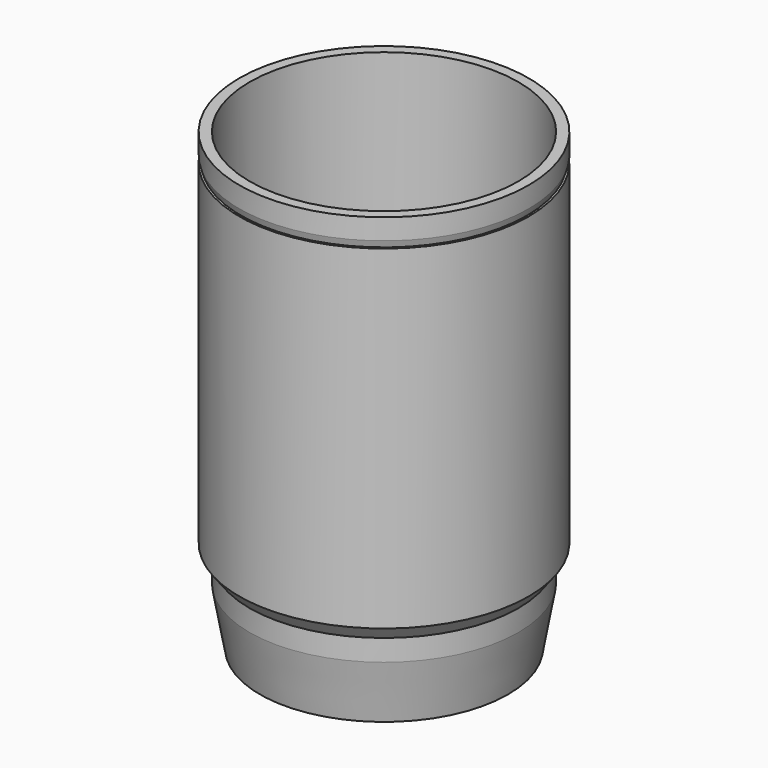
from build123d import *


with BuildPart() as f1:
    # F0 (on Front) → F1 (revolve)
    with BuildSketch(Plane.XZ):
        Polygon((0, -2), (0, 0), (-28.3, 0), (-28.3, 9.8), (-33.3, 14.8), (-36, 14.8), (-36, 21), (-39, 24.981719), (-39, 130), (-42, 130), (-42, 124), (-41.4, 122), (-42, 122), (-42, 24.981719), (-39, 21), (-39, 14.8), (-36, -2), (-28.3, -2), align=None)
    revolve(axis=Axis((0, 0, -1), (0, 0, -1)))


solid = f1.part
